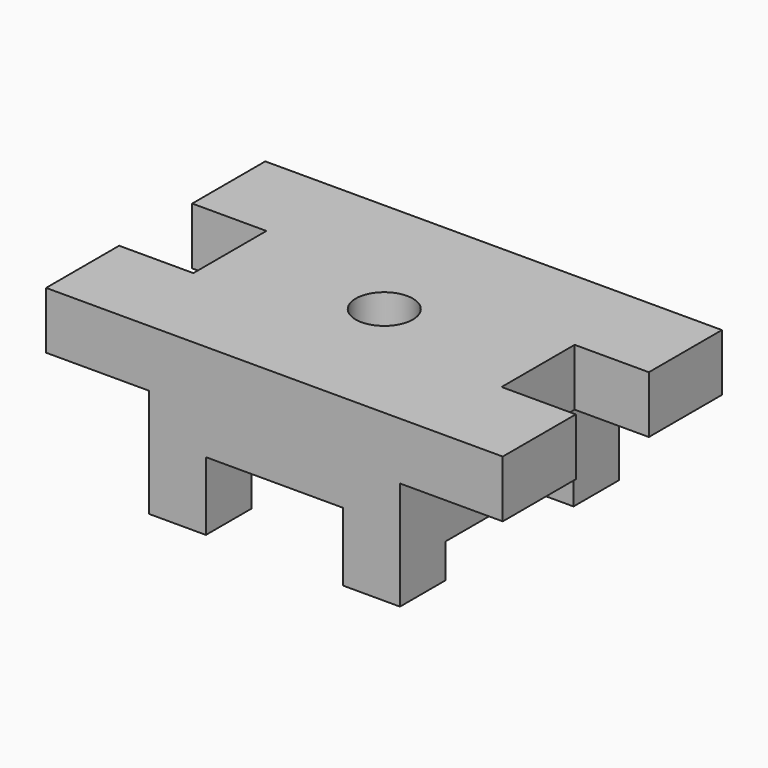
from build123d import *

# Parameters (mm, degrees)
F0_W     = 31.75
F0_H     = 31.75
F0_R     = 15.875
F0_H_2   = 88.9
F1_DEPTH = 92.075
F2_DEPTH = 19.05
F3_DEPTH = 38.1
F4_DEPTH = 60.325


with BuildPart() as f1:
    # F0 (on Top) → F1 (new body)
    with BuildSketch(Plane.XY):
        Polygon((126.851007, 25.4), (126.851007, 76.2), (69.701007, 76.2), (69.701007, 44.45), (69.701007, -44.45), (69.701007, -76.2), (126.851007, -76.2), (126.851007, -25.4), (85.576007, -25.4), (85.576007, 25.4), align=None)
        with Locations((53.826007, 60.325)):
            Rectangle(F0_W, F0_H)
        Polygon((37.951007, 44.45), (37.951007, 76.2), (-38.248993, 76.2), (-38.248993, 44.45), (-38.248993, -44.45), (-38.248993, -76.2), (37.951007, -76.2), (37.951007, -44.45), align=None)
        Circle(F0_R, mode=Mode.SUBTRACT)
        with Locations((-54.123993, 60.325)):
            Rectangle(F0_W, F0_H)
        with Locations((53.826007, -60.325)):
            Rectangle(F0_W, F0_H)
        Polygon((-69.998993, 44.45), (-69.998993, 76.2), (-127.148993, 76.2), (-127.148993, 25.4), (-85.873993, 25.4), (-85.873993, -25.4), (-127.148993, -25.4), (-127.148993, -76.2), (-69.998993, -76.2), (-69.998993, -44.45), align=None)
        with Locations((-54.123993, -60.325)):
            Rectangle(F0_W, F0_H)
        with Locations((-54.123993, 0)):
            Rectangle(F0_W, F0_H_2)
        with Locations((53.826007, 0)):
            Rectangle(F0_W, F0_H_2)
    extrude(amount=F1_DEPTH)

    # F0 (on Top) → F2 (cut)
    with BuildSketch(Plane.XY):
        with Locations((-54.123993, 0)):
            Rectangle(F0_W, F0_H_2)
        with Locations((53.826007, 0)):
            Rectangle(F0_W, F0_H_2)
    extrude(amount=F2_DEPTH, mode=Mode.SUBTRACT)

    # F0 (on Top) → F3 (cut)
    with BuildSketch(Plane.XY):
        Polygon((37.951007, 44.45), (37.951007, 76.2), (-38.248993, 76.2), (-38.248993, 44.45), (-38.248993, -44.45), (-38.248993, -76.2), (37.951007, -76.2), (37.951007, -44.45), align=None)
        Circle(F0_R, mode=Mode.SUBTRACT)
    extrude(amount=F3_DEPTH, mode=Mode.SUBTRACT)

    # F0 (on Top) → F4 (cut)
    with BuildSketch(Plane.XY):
        Polygon((-69.998993, 44.45), (-69.998993, 76.2), (-127.148993, 76.2), (-127.148993, 25.4), (-85.873993, 25.4), (-85.873993, -25.4), (-127.148993, -25.4), (-127.148993, -76.2), (-69.998993, -76.2), (-69.998993, -44.45), align=None)
        Polygon((126.851007, 25.4), (126.851007, 76.2), (69.701007, 76.2), (69.701007, 44.45), (69.701007, -44.45), (69.701007, -76.2), (126.851007, -76.2), (126.851007, -25.4), (85.576007, -25.4), (85.576007, 25.4), align=None)
    extrude(amount=F4_DEPTH, mode=Mode.SUBTRACT)


solid = f1.part
